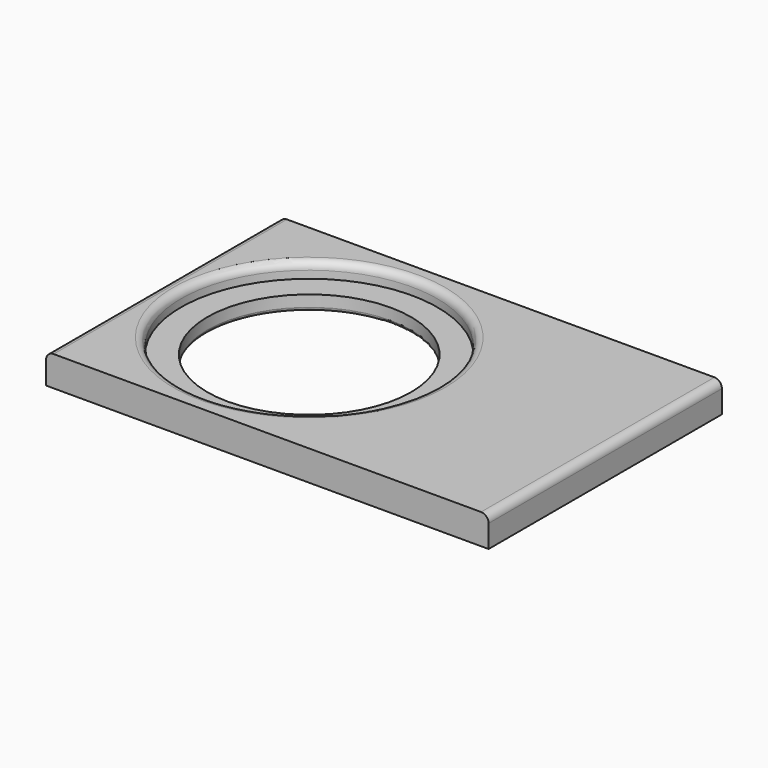
from build123d import *

# Parameters (mm, degrees)
F0_W     = 558.8
F0_H     = 368.3
F0_R     = 161.925
F1_DEPTH = 38.1
F0_R_2   = 128.5875
F2_DEPTH = 19.05
F3_R     = 9.525
F4_R     = 4.7625
F5_R     = 9.525


with BuildPart() as f1:
    # F0 (on Top) → F1 (new body)
    with BuildSketch(Plane.XY):
        with Locations((279.4, 184.15)):
            Rectangle(F0_W, F0_H)
        with Locations((184.15, 185.159966)):
            Circle(F0_R, mode=Mode.SUBTRACT)
    extrude(amount=F1_DEPTH)

    # F0 (on Top) → F2 (join)
    with BuildSketch(Plane.XY):
        with Locations((184.15, 185.159966)):
            Circle(F0_R)
        with Locations((184.15, 185.159966)):
            Circle(F0_R_2, mode=Mode.SUBTRACT)
    extrude(amount=F2_DEPTH)

    # F3
    f3_edges = [f1.edges().sort_by_distance(p)[0] for p in [
        (22.225, 185.159966, 38.1),
    ]]
    fillet(f3_edges, radius=F3_R)

    # F4
    f4_edges = [f1.edges().sort_by_distance(p)[0] for p in [
        (55.5625, 185.159966, 0),
    ]]
    fillet(f4_edges, radius=F4_R)

    # F5
    f5_edges = [f1.edges().sort_by_distance(p)[0] for p in [
        (558.8, 184.15, 38.1),
        (0, 184.15, 38.1),
    ]]
    fillet(f5_edges, radius=F5_R)


solid = f1.part
